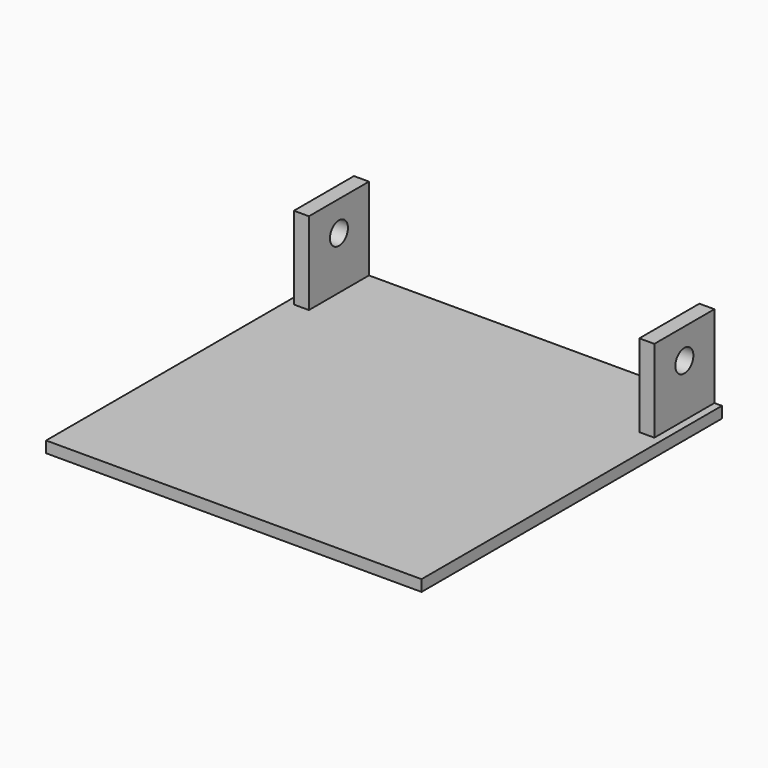
from build123d import *

# Parameters (mm, degrees)
F0_W     = 500
F0_H     = 500
F1_DEPTH = 15
F2_W     = 20
F2_H     = 100
F3_DEPTH = 110
F4_R     = 15
F5_DEPTH = 490.001


with BuildPart() as f1:
    # F0 (on Top) → F1 (new body)
    with BuildSketch(Plane.XY):
        Rectangle(F0_W, F0_H)
    extrude(amount=F1_DEPTH)

    # F2 (on face) → F3 (join)
    with BuildSketch(Plane.XY.offset(15)):
        with Locations((230, 200)):
            Rectangle(F2_W, F2_H)
        with Locations((-230, 200)):
            Rectangle(F2_W, F2_H)
    extrude(amount=F3_DEPTH)

    # F4 (on face) → F5 (cut, through all)
    with BuildSketch(Plane.YZ.offset(240)):
        with Locations((200, 85)):
            Circle(F4_R)
        with Locations((200, 85)):
            Circle(F4_R)
    extrude(amount=-F5_DEPTH, mode=Mode.SUBTRACT)


solid = f1.part
